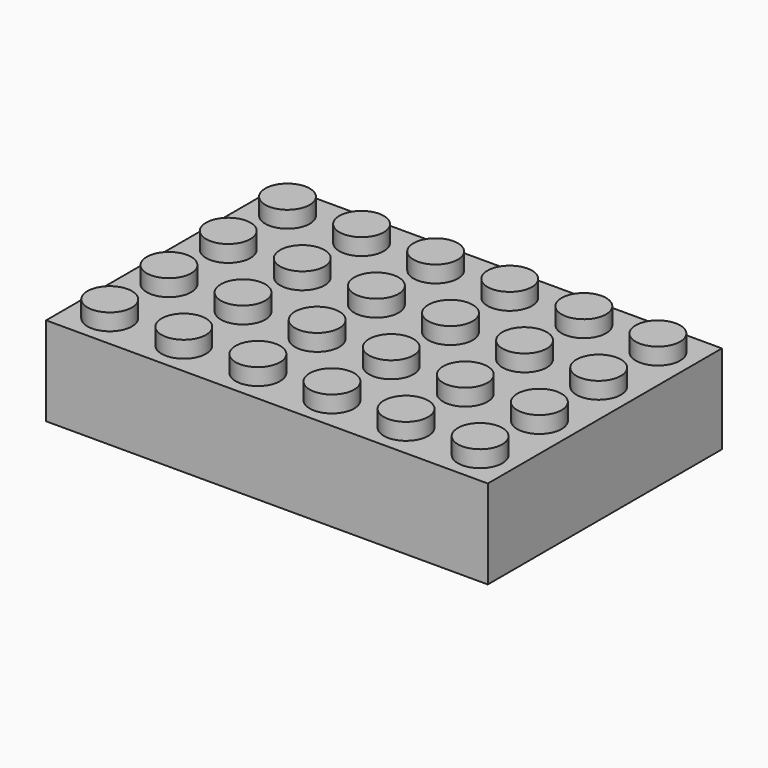
from build123d import *

# Parameters (mm, degrees)
F0_W     = 47.7
F0_H     = 31.6
F1_DEPTH = 9.6
F2_W     = 45.3
F2_H     = 29.2
F3_DEPTH = 8.6
F4_R     = 2.4
F5_DEPTH = 1.8
F7_R     = 1.3
F8_DEPTH = 1.2


with BuildPart() as f1:
    # F0 (on Top) → F1 (new body)
    with BuildSketch(Plane.XY):
        Rectangle(F0_W, F0_H)
    extrude(amount=F1_DEPTH)

    # F2 (on face) → F3 (cut)
    with BuildSketch(Plane.XY):
        Rectangle(F2_W, F2_H)
    extrude(amount=F3_DEPTH, mode=Mode.SUBTRACT)

    # F4 (on face) → F5 (join)
    with BuildSketch(Plane.XY.offset(9.6)):
        with Locations((-19.9, 11.85)):
            Circle(F4_R)
        with Locations((-19.9, 3.85)):
            Circle(F4_R)
        with Locations((-19.9, -4.15)):
            Circle(F4_R)
        with Locations((-19.9, -12.15)):
            Circle(F4_R)
        with Locations((-11.9, 11.85)):
            Circle(F4_R)
        with Locations((-11.9, 3.85)):
            Circle(F4_R)
        with Locations((-11.9, -4.15)):
            Circle(F4_R)
        with Locations((-11.9, -12.15)):
            Circle(F4_R)
        with Locations((-3.9, 11.85)):
            Circle(F4_R)
        with Locations((-3.9, 3.85)):
            Circle(F4_R)
        with Locations((-3.9, -4.15)):
            Circle(F4_R)
        with Locations((-3.9, -12.15)):
            Circle(F4_R)
        with Locations((4.1, 11.85)):
            Circle(F4_R)
        with Locations((4.1, 3.85)):
            Circle(F4_R)
        with Locations((4.1, -4.15)):
            Circle(F4_R)
        with Locations((4.1, -12.15)):
            Circle(F4_R)
        with Locations((12.1, 11.85)):
            Circle(F4_R)
        with Locations((12.1, 3.85)):
            Circle(F4_R)
        with Locations((12.1, -4.15)):
            Circle(F4_R)
        with Locations((12.1, -12.15)):
            Circle(F4_R)
        with Locations((20.1, 11.85)):
            Circle(F4_R)
        with Locations((20.1, 3.85)):
            Circle(F4_R)
        with Locations((20.1, -4.15)):
            Circle(F4_R)
        with Locations((20.1, -12.15)):
            Circle(F4_R)
    extrude(amount=F5_DEPTH)

    # F7 (on offset) → F8 (cut)
    with BuildSketch(Plane.XY.offset(8.4)):
        with Locations((-19.9, -12.15)):
            Circle(F7_R)
        with Locations((-19.9, -4.15)):
            Circle(F7_R)
        with Locations((-19.9, 3.85)):
            Circle(F7_R)
        with Locations((-19.9, 11.85)):
            Circle(F7_R)
        with Locations((-11.9, -12.15)):
            Circle(F7_R)
        with Locations((-11.9, -4.15)):
            Circle(F7_R)
        with Locations((-11.9, 3.85)):
            Circle(F7_R)
        with Locations((-11.9, 11.85)):
            Circle(F7_R)
        with Locations((-3.9, -12.15)):
            Circle(F7_R)
        with Locations((-3.9, -4.15)):
            Circle(F7_R)
        with Locations((-3.9, 3.85)):
            Circle(F7_R)
        with Locations((-3.9, 11.85)):
            Circle(F7_R)
        with Locations((4.1, -12.15)):
            Circle(F7_R)
        with Locations((4.1, -4.15)):
            Circle(F7_R)
        with Locations((4.1, 3.85)):
            Circle(F7_R)
        with Locations((4.1, 11.85)):
            Circle(F7_R)
        with Locations((12.1, -12.15)):
            Circle(F7_R)
        with Locations((12.1, -4.15)):
            Circle(F7_R)
        with Locations((12.1, 3.85)):
            Circle(F7_R)
        with Locations((12.1, 11.85)):
            Circle(F7_R)
        with Locations((20.1, -12.15)):
            Circle(F7_R)
        with Locations((20.1, -4.15)):
            Circle(F7_R)
        with Locations((20.1, 3.85)):
            Circle(F7_R)
        with Locations((20.1, 11.85)):
            Circle(F7_R)
    extrude(amount=F8_DEPTH, mode=Mode.SUBTRACT)


solid = f1.part
